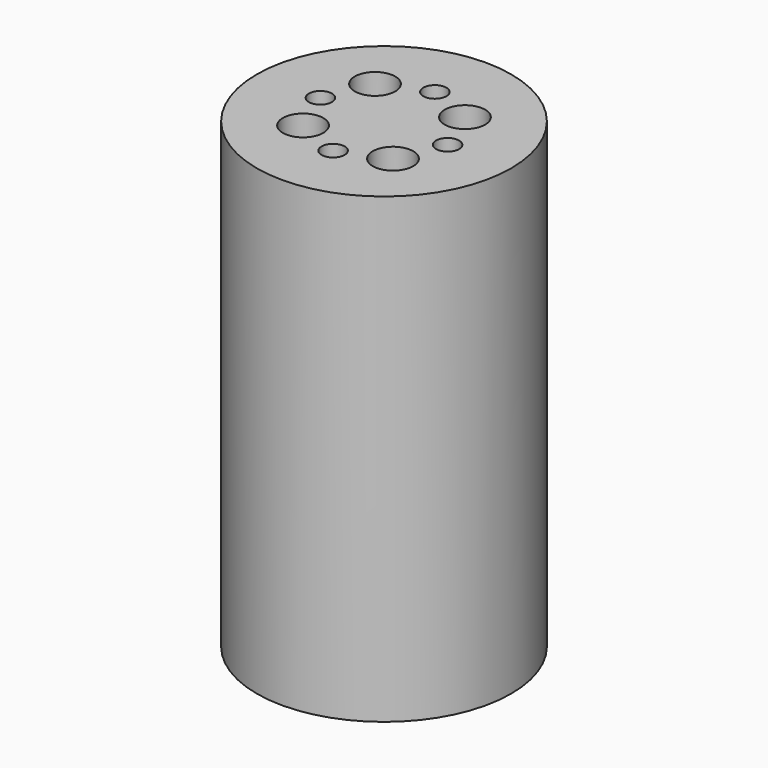
from build123d import *

# Parameters (mm, degrees)
F0_R     = 11
F1_DEPTH = 40
F3_D     = 3.0625
F3_DEPTH = 25
F3_TIP   = 0.9200678229
F5_D     = 2
F5_DEPTH = 25
F5_TIP   = 0.600860619
F7_D     = 3.5
F7_DEPTH = 25
F7_TIP   = 1.0515060833


with BuildPart() as f1:
    # F0 (on Top) → F1 (new body)
    with BuildSketch(Plane.XY):
        Circle(F0_R)
    extrude(amount=F1_DEPTH)

    # F3
    with Locations(Plane(origin=(0, 0, 0), x_dir=(1, 0, 0), z_dir=(0, 0, -1))):
        with Locations((0, 0)):
            Hole(F3_D / 2, depth=F3_DEPTH)
            with Locations((0, 0, -(F3_DEPTH + F3_TIP / 2))):  # 118° drill point
                Cone(0, F3_D / 2, F3_TIP, mode=Mode.SUBTRACT)

    # F5
    with Locations(Plane.XY.offset(40)):
        with Locations((0, 5.5), (5.5, 0), (-5.5, 0), (0, -5.5)):
            Hole(F5_D / 2, depth=F5_DEPTH)
            with Locations((0, 0, -(F5_DEPTH + F5_TIP / 2))):  # 118° drill point
                Cone(0, F5_D / 2, F5_TIP, mode=Mode.SUBTRACT)

    # F7
    with Locations(Plane.XY.offset(40)):
        with Locations((-3.8890872965, 3.8890872965), (3.8890872965, 3.8890872965), (3.8890872965, -3.8890872965), (-3.8890872965, -3.8890872965)):
            Hole(F7_D / 2, depth=F7_DEPTH)
            with Locations((0, 0, -(F7_DEPTH + F7_TIP / 2))):  # 118° drill point
                Cone(0, F7_D / 2, F7_TIP, mode=Mode.SUBTRACT)


solid = f1.part
